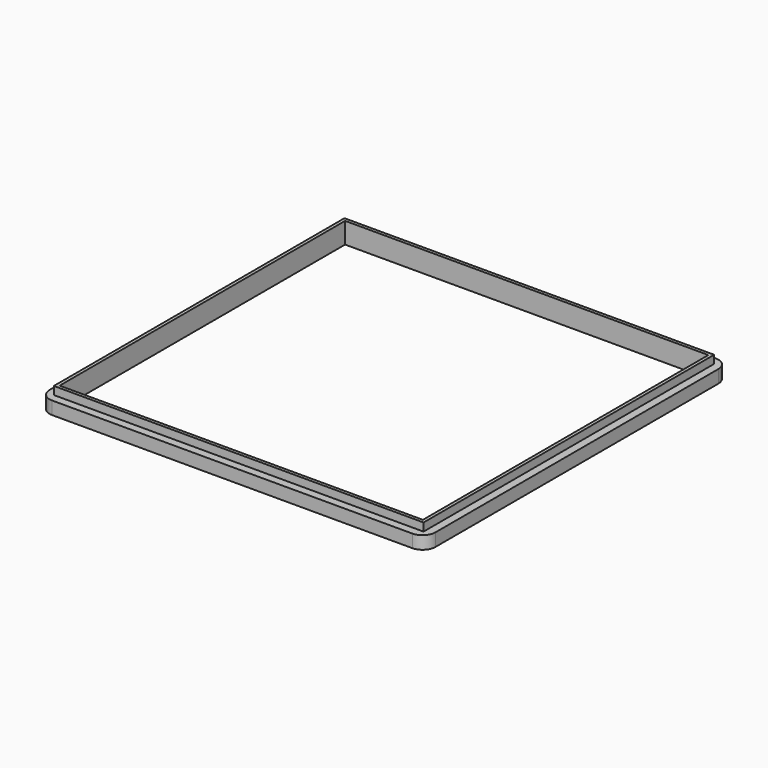
from build123d import *

# Parameters (mm, degrees)
F0_W     = 120
F0_H     = 118
F1_DEPTH = 4
F2_W     = 1
F2_H     = 1
F2_W_2   = 113
F2_H_2   = 111
F3_DEPTH = 2.5
F4_W     = 113
F4_H     = 111
F5_DEPTH = 5
F6_R     = 4


with BuildPart() as f1:
    # F0 (on Top) → F1 (new body)
    with BuildSketch(Plane.XY):
        Rectangle(F0_W, F0_H)
    extrude(amount=F1_DEPTH)

    # F2 (on face) → F3 (join)
    with BuildSketch(Plane.XY.offset(4)):
        with Locations((-57, 56)):
            Rectangle(F2_W, F2_H)
        with Locations((0, 56)):
            Rectangle(F2_W_2, F2_H)
        with Locations((-57, 0)):
            Rectangle(F2_W, F2_H_2)
        with Locations((57, 56)):
            Rectangle(F2_W, F2_H)
        with Locations((-57, -56)):
            Rectangle(F2_W, F2_H)
        with Locations((0, -56)):
            Rectangle(F2_W_2, F2_H)
        with Locations((57, 0)):
            Rectangle(F2_W, F2_H_2)
        with Locations((57, -56)):
            Rectangle(F2_W, F2_H)
    extrude(amount=F3_DEPTH)

    # F4 (on face) → F5 (cut)
    with BuildSketch(Plane.XY.offset(4)):
        Rectangle(F4_W, F4_H)
    extrude(amount=-F5_DEPTH, mode=Mode.SUBTRACT)

    # F6
    f6_edges = [f1.edges().sort_by_distance(p)[0] for p in [
        (-60, 59, 2),
        (60, 59, 2),
        (60, -59, 2),
        (-60, -59, 2),
    ]]
    fillet(f6_edges, radius=F6_R)


solid = f1.part
